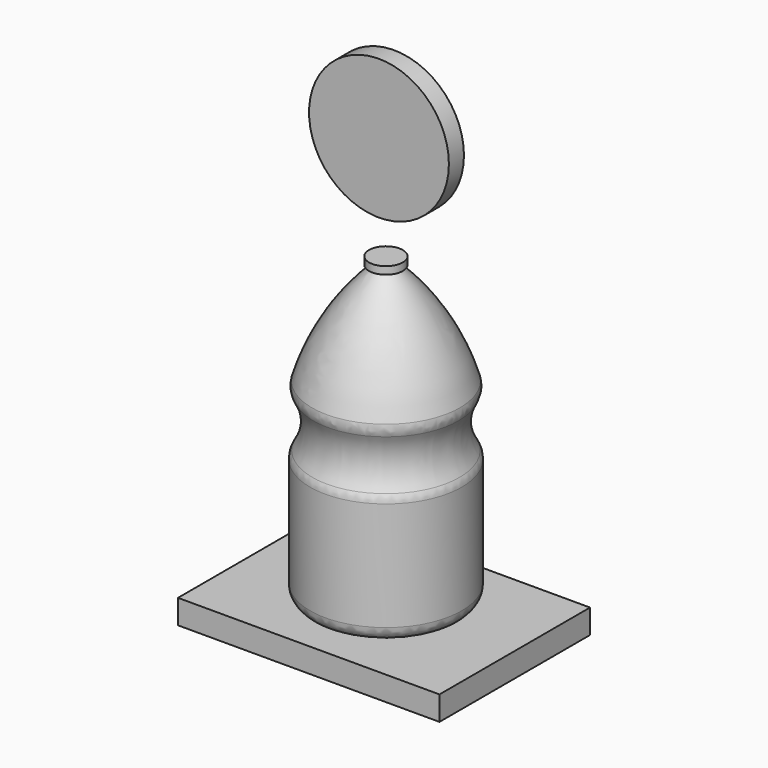
from build123d import *

# Parameters (mm, degrees)
F2_R     = 5.08
F3_R     = 23.5927238777
F4_DEPTH = 3.175
F6_DEPTH = 31.75


with BuildPart() as f1:
    # F0 (on Front) → F1 (revolve)
    with BuildSketch(Plane.XZ):
        with BuildLine():
            Line((150.902569294, 2.7332641314), (150.902569294, 103.1326281214))
            Line((150.902569294, 103.1326281214), (145.205315774, 103.1326281214))
            Line((145.205315774, 103.1326281214), (145.205315774, 100.5926281214))
            Line((145.205315774, 100.5926281214), (147.237315774, 100.5926281214))
            ThreePointArc((147.237315774, 100.5926281214), (133.7500752781, 83.7628392476), (125.2999454737, 63.9198869467))
            ThreePointArc((125.2999454737, 63.9198869467), (128.5019630981, 54.1572850198), (125.2999454737, 44.3946830928))
            Line((125.2999454737, 44.3946830928), (125.2999454737, 0))
            ThreePointArc((125.2999454737, 0), (138.027920304, 2.0535842143), (150.902569294, 2.7332641314))
        make_face()
    revolve(axis=Axis((150.902569294, 0, 52.9329461264), (0, 0, -1)))

    # F2
    f2_edges = [f1.edges().sort_by_distance(p)[0] for p in [
        (176.505193, 0, 63.919887),
        (176.505193, 0, 44.394683),
        (176.505193, 0, 0),
    ]]
    fillet(f2_edges, radius=F2_R)


with BuildPart() as f4:
    # F3 (on Front) → F4 (new body, symmetric)
    with BuildSketch(Plane.XZ):
        with Locations((151.0987877846, 139.5410522819)):
            Circle(F3_R)
    extrude(amount=F4_DEPTH, both=True)


with BuildPart() as f6:
    # F5 (on Front) → F6 (new body, symmetric)
    with BuildSketch(Plane.XZ):
        Polygon((194.3747103214, 0), (168.5612797737, 0), (106.1320081353, 0), (106.1320081353, -8.1699812581), (194.3747103214, -8.1699812581), align=None)
    extrude(amount=F6_DEPTH, both=True)


solid = Compound([f1.part, f4.part, f6.part])
